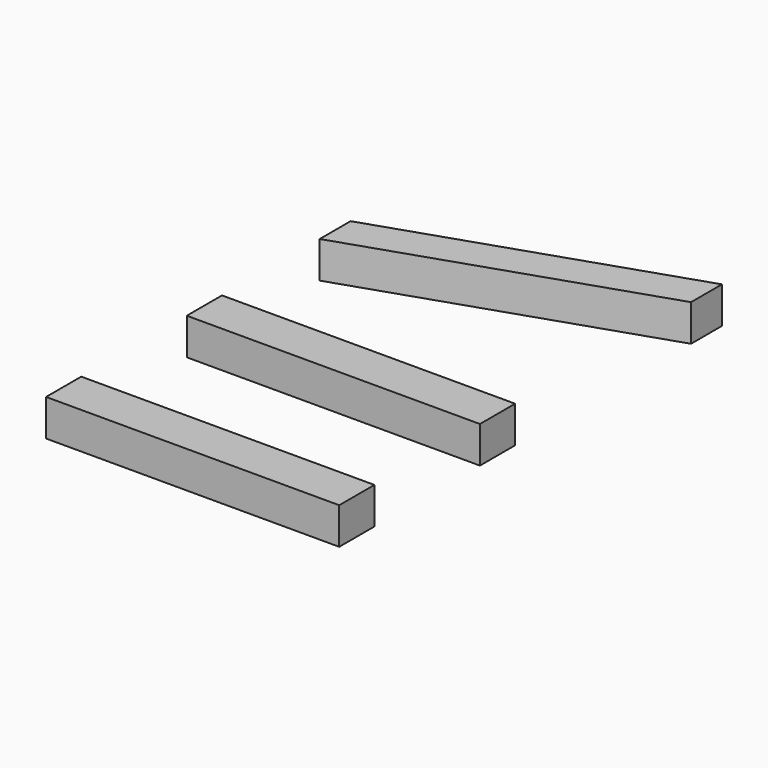
from build123d import *

# Parameters (mm, degrees)
F0_W     = 1200
F0_H     = 180
F1_DEPTH = 150


with BuildPart() as f1:
    # F0 (on Top) → F1 (new body)
    with BuildSketch(Plane.XY):
        Polygon((1200, 1778.113883), (0, 1378.113883), (0, 1220), (1200, 1620), align=None)
        with Locations((600, 630)):
            Rectangle(F0_W, F0_H)
        with Locations((600, -90)):
            Rectangle(F0_W, F0_H)
    extrude(amount=F1_DEPTH)


solid = f1.part
